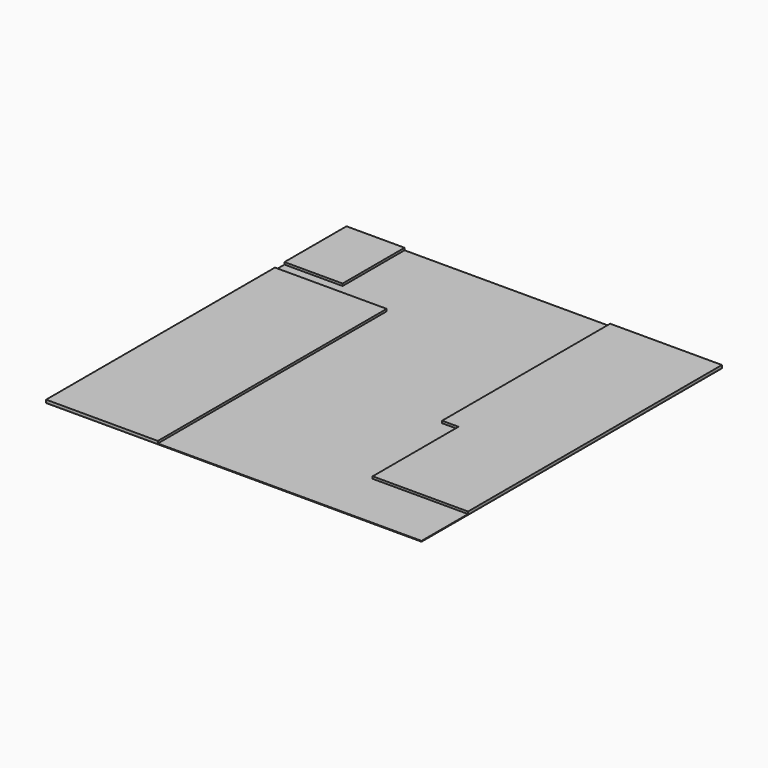
from build123d import *

# Parameters (mm, degrees)
F1_W     = 812.8
F1_H     = 914.4
F1_W_2   = 952.5
F1_H_2   = 2438.4
F1_W_3   = 495.3
F1_H_3   = 660.4
F2_DEPTH = 25.4
F0_W     = 3200.4
F0_H     = 3200.4
F3_DEPTH = 6.35


with BuildPart() as f2:
    # F1 (on face) → F2 (new body)
    with BuildSketch(Plane.XY):
        Polygon((1583.157545, 1571.823387), (630.657545, 1571.823387), (630.657545, -218.876613), (770.357545, -218.876613), (1583.157545, -218.876613), align=None)
        with Locations((1176.757545, -676.076613)):
            Rectangle(F1_W, F1_H)
        with Locations((-1140.992455, -409.376613)):
            Rectangle(F1_W_2, F1_H_2)
        with Locations((-1369.592455, 1241.623387)):
            Rectangle(F1_W_3, F1_H_3)
    extrude(amount=F2_DEPTH)


with BuildPart() as f3:
    # F0 (on Top) → F3 (new body)
    with BuildSketch(Plane.XY):
        with Locations((-17.042455, -28.376613)):
            Rectangle(F0_W, F0_H)
    extrude(amount=F3_DEPTH)


solid = Compound([f2.part, f3.part])
